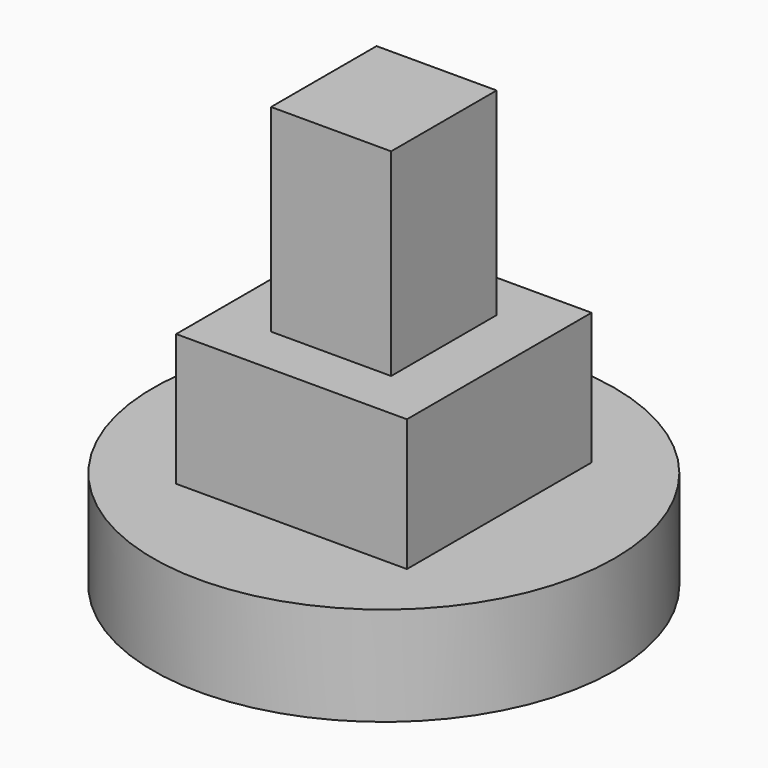
from build123d import *

# Parameters (mm, degrees)
F0_R     = 35
F1_DEPTH = 15
F2_W     = 35
F2_H     = 35
F3_DEPTH = 20
F4_W     = 18.214288
F4_H     = 20
F5_DEPTH = 30


with BuildPart() as f1:
    # F0 (on Top) → F1 (new body)
    with BuildSketch(Plane.XY):
        Circle(F0_R)
    extrude(amount=F1_DEPTH)

    # F2 (on face) → F3 (join)
    with BuildSketch(Plane.XY.offset(15)):
        Rectangle(F2_W, F2_H)
    extrude(amount=F3_DEPTH)

    # F4 (on face) → F5 (join)
    with BuildSketch(Plane.XY.offset(35)):
        Rectangle(F4_W, F4_H)
    extrude(amount=F5_DEPTH)


solid = f1.part
